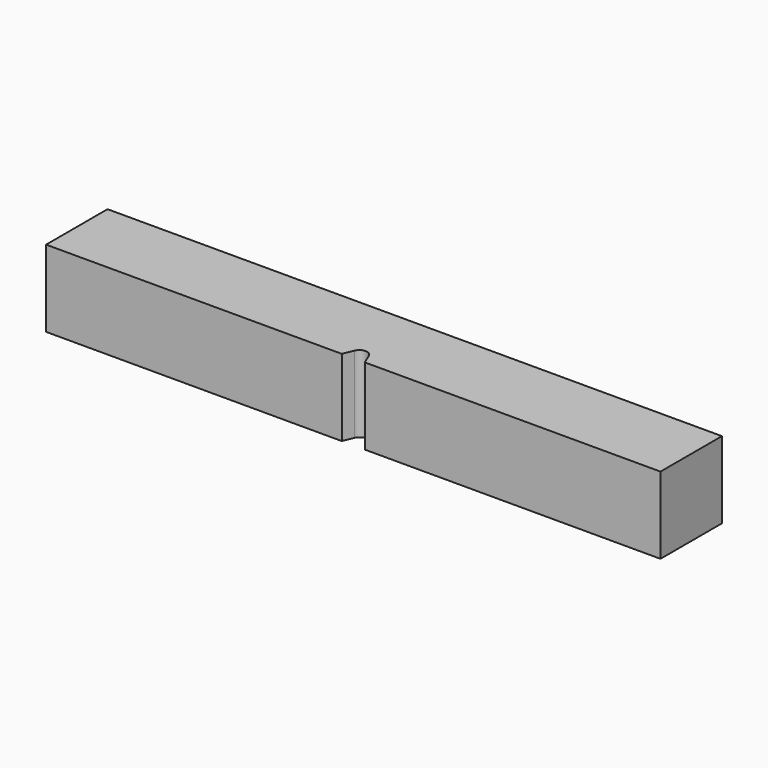
from build123d import *

# Parameters (mm, degrees)
F1_DEPTH = 10


with BuildPart() as f1:
    # F0 (on Top) → F1 (new body)
    with BuildSketch(Plane.XY):
        with BuildLine():
            Line((40, 5), (-40, 5))
            Line((-40, 5), (-40, -5))
            Line((-40, -5), (-1.496606, -5))
            Line((-1.496606, -5), (-0.92388, -3.617317))
            ThreePointArc((-0.92388, -3.617317), (0, -3), (0.92388, -3.617317))
            Line((0.92388, -3.617317), (1.496606, -5))
            Line((1.496606, -5), (40, -5))
            Line((40, -5), (40, 5))
        make_face()
    extrude(amount=F1_DEPTH)


solid = f1.part
